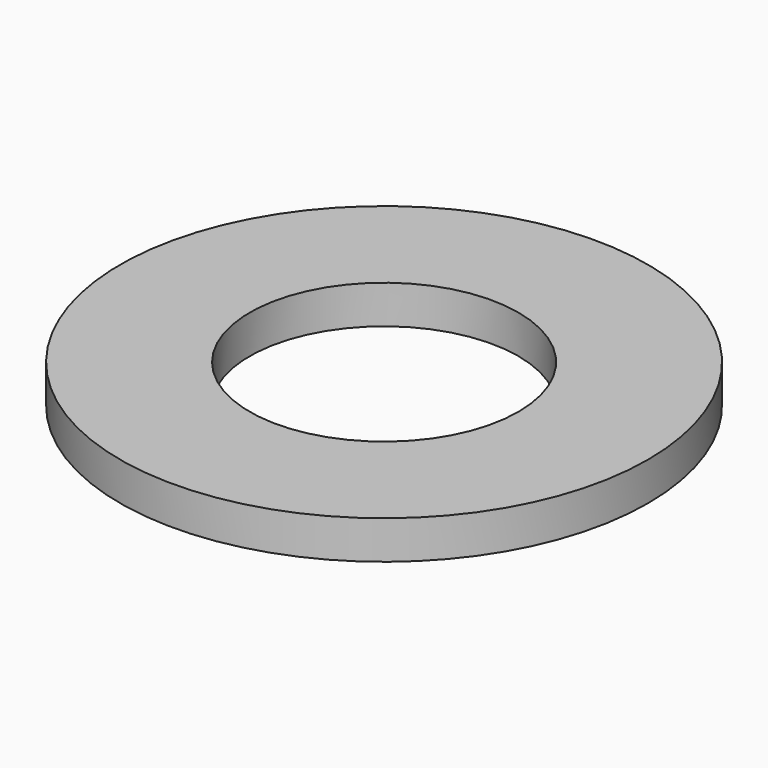
from build123d import *

# Parameters (mm, degrees)
SKETCH_R   = 27.5
SKETCH_R_2 = 14
PAD_DEPTH  = 4


with BuildPart() as part:
    # Sketch → Pad (new body)
    with BuildSketch(Plane.XY):
        Circle(SKETCH_R)
        Circle(SKETCH_R_2, mode=Mode.SUBTRACT)
    extrude(amount=PAD_DEPTH)


solid = part.part
